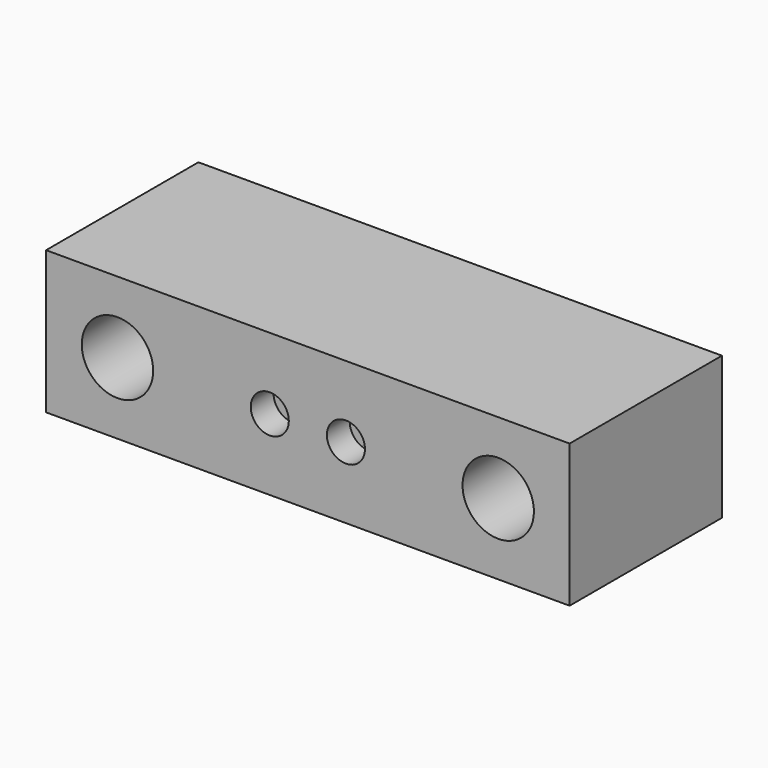
from build123d import *

# Parameters (mm, degrees)
F0_W     = 139.7
F0_H     = 38.1
F1_DEPTH = 25.4
F2_R     = 9.525
F3_DEPTH = 50.801
F4_R     = 5.08
F5_DEPTH = 7.62


with BuildPart() as f1:
    # F0 (on Front) → F1 (new body, symmetric)
    with BuildSketch(Plane.XZ):
        Rectangle(F0_W, F0_H)
    extrude(amount=F1_DEPTH, both=True)

    # F2 (on face) → F3 (cut, through all)
    with BuildSketch(Plane.XZ.offset(25.4)):
        with Locations((-50.8, 0)):
            Circle(F2_R)
        with Locations((50.8, 0)):
            Circle(F2_R)
    extrude(amount=-F3_DEPTH, mode=Mode.SUBTRACT)

    # F4 (on face) → F5 (cut)
    with BuildSketch(Plane.XZ.offset(25.4)):
        with Locations((-10.16, 0)):
            Circle(F4_R)
        with Locations((10.16, 0)):
            Circle(F4_R)
    extrude(amount=-F5_DEPTH, mode=Mode.SUBTRACT)


solid = f1.part
